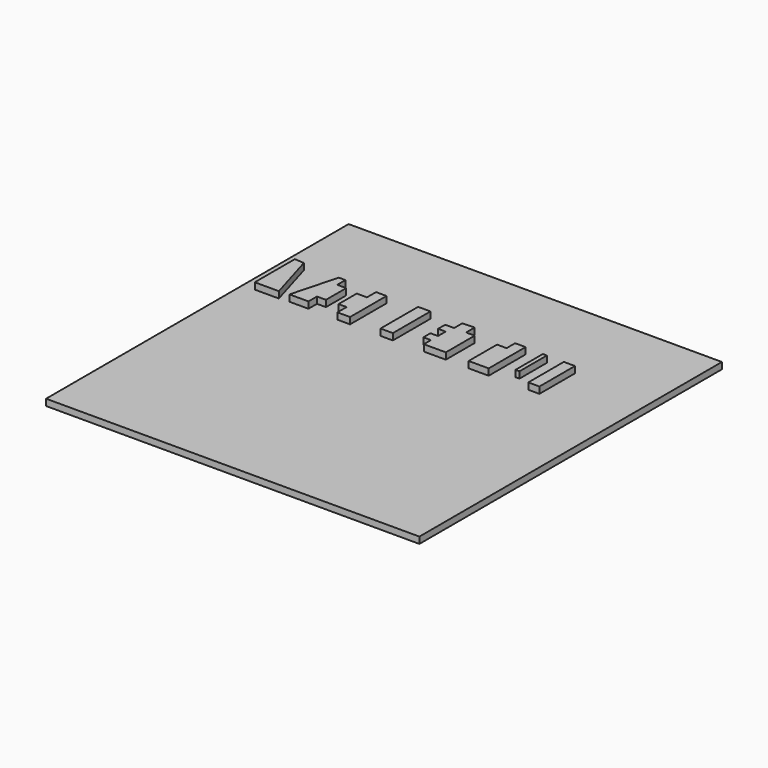
from build123d import *

# Parameters (mm, degrees)
F0_W      = 146.40107
F0_H      = 148.310445
F1_DEPTH  = 2.54
F4_DEPTH  = 2.54
F6_DEPTH  = 2.54
F8_DEPTH  = 2.54
F9_W      = 4.851737
F9_H      = 18.426374
F10_DEPTH = 2.54
F12_DEPTH = 2.54
F14_DEPTH = 2.54
F15_W     = 1.578693
F15_H     = 13.412963
F16_DEPTH = 2.54
F17_W     = 4.364304
F17_H     = 17.427249
F18_DEPTH = 2.54


with BuildPart() as f1:
    # F0 (on Top) → F1 (new body)
    with BuildSketch(Plane.XY):
        with Locations((-0.210952, 0.137563)):
            Rectangle(F0_W, F0_H)
    extrude(amount=F1_DEPTH)

    # F3 (on offset) → F4 (join)
    with BuildSketch(Plane.XY.offset(2.54)):
        Polygon((-64.964116, 41.773472), (-68.692707, 42.022042), (-68.692707, 22.384809), (-59.246946, 22.384809), align=None)
    extrude(amount=F4_DEPTH)

    # F5 (on offset) → F6 (join)
    with BuildSketch(Plane.XY.offset(2.54)):
        Polygon((-50.52999, 40.857933), (-55.370778, 22.743205), (-47.918595, 22.743205), (-47.918595, 26.920337), (-44.406321, 26.920337), (-44.406321, 36.838796), (-47.918595, 36.838796), (-47.918595, 40.857933), align=None)
    extrude(amount=F6_DEPTH)

    # F7 (on offset) → F8 (join)
    with BuildSketch(Plane.XY.offset(2.54)):
        Polygon((-35.617545, 36.038097), (-39.623722, 36.063977), (-39.623722, 27.117148), (-36.453769, 27.117148), (-36.453769, 22.621898), (-31.509895, 22.621898), (-31.509895, 40.49129), (-35.617545, 40.49129), align=None)
    extrude(amount=F8_DEPTH)

    # F9 (on offset) → F10 (join)
    with BuildSketch(Plane.XY.offset(2.54)):
        with Locations((-17.03154, 31.691134)):
            Rectangle(F9_W, F9_H)
    extrude(amount=F10_DEPTH)

    # F11 (on offset) → F12 (join)
    with BuildSketch(Plane.XY.offset(2.54)):
        Polygon((2.639255, 41.013792), (-2.057669, 40.791102), (-2.057669, 36.814019), (-5.565096, 36.814019), (-5.565096, 33.358328), (-2.61138, 33.358328), (-2.61138, 29.607166), (-5.565096, 29.607166), (-5.565096, 26.148241), (-2.61138, 26.148241), (-2.61138, 22.650495), (6.022215, 22.650495), (6.022215, 36.814019), (2.639255, 36.814019), align=None)
    extrude(amount=F12_DEPTH)

    # F13 (on offset) → F14 (join)
    with BuildSketch(Plane.XY.offset(2.54)):
        Polygon((18.820403, 36.453847), (15.066023, 36.453847), (15.066023, 22.535659), (22.926439, 22.535659), (22.926439, 40.634211), (18.820403, 40.634211), align=None)
    extrude(amount=F14_DEPTH)

    # F15 (on offset) → F16 (join)
    with BuildSketch(Plane.XY.offset(2.54)):
        with Locations((30.708009, 33.6177)):
            Rectangle(F15_W, F15_H)
    extrude(amount=F16_DEPTH)

    # F17 (on offset) → F18 (join)
    with BuildSketch(Plane.XY.offset(2.54)):
        with Locations((40.387601, 31.565268)):
            Rectangle(F17_W, F17_H)
    extrude(amount=F18_DEPTH)


solid = f1.part
